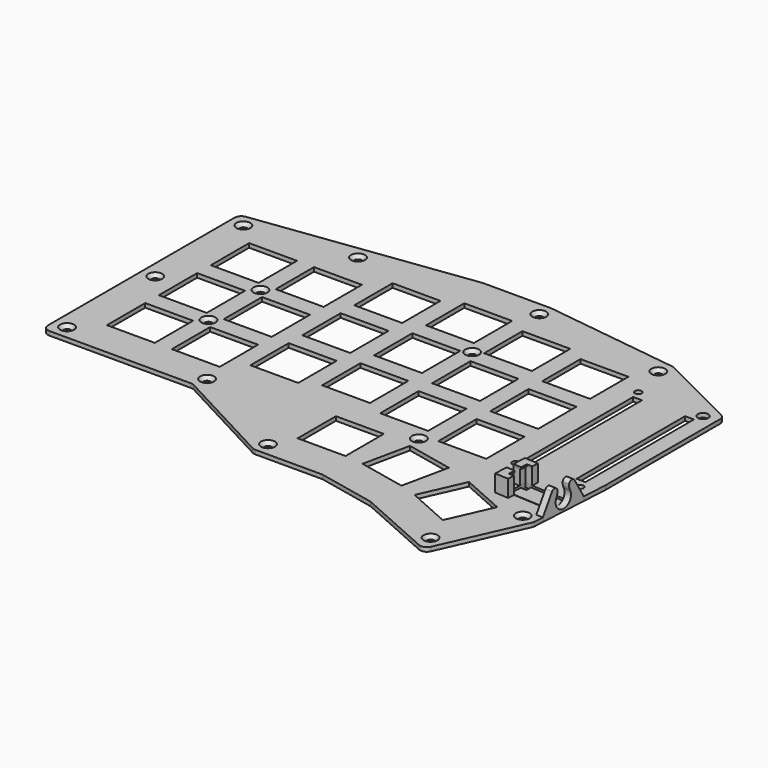
from build123d import *

# Parameters (mm, degrees)
SKETCH_W        = 14.05
SKETCH_H        = 14.05
PAD_DEPTH       = 1.2
FILLET_R        = 2
SKETCH002_R     = 1.05
SKETCH002_R_2   = 1.55
POCKET_DEPTH    = 1.2
CHAMFER_SIZE    = 1
SKETCH010_R     = 0.975
SKETCH010_W     = 2.6
SKETCH010_H     = 39.8
POCKET003_DEPTH = 5
POCKET004_DEPTH = 0.6
POCKET005_DEPTH = 5
PAD007_DEPTH    = 2
FILLET004_R     = 3
FILLET005_R     = 1
PAD008_DEPTH    = 4.45
PAD009_DEPTH    = 0.5


with BuildPart() as part:
    # Sketch → Pad (new body)
    with BuildSketch(Plane.XY):
        Polygon((0, 72.168726), (0, 0), (44.103903, 0), (75.203903, -16.55), (95.409166, -16.55), (112.397959, -20.161079), (136.341223, -30.821308), (147.938038, -4.774436), (149.35, 19.79532), (149.35, 63.069272), (124.674612, 75.406966), (84.722693, 80.65), (64.627307, 80.65), align=None)
        Polygon((118.184417, -11.243696), (123.899067, 1.591618), (136.734381, -4.123032), (131.019731, -16.958346), align=None, mode=Mode.SUBTRACT)
        with Locations((17.525, 17.525)):
            Rectangle(SKETCH_W, SKETCH_H, mode=Mode.SUBTRACT)
        with Locations((36.575, 17.525)):
            Rectangle(SKETCH_W, SKETCH_H, mode=Mode.SUBTRACT)
        with Locations((55.625, 22.525)):
            Rectangle(SKETCH_W, SKETCH_H, mode=Mode.SUBTRACT)
        with Locations((74.675, 25.025)):
            Rectangle(SKETCH_W, SKETCH_H, mode=Mode.SUBTRACT)
        with Locations((93.725, 22.525)):
            Rectangle(SKETCH_W, SKETCH_H, mode=Mode.SUBTRACT)
        with Locations((112.775, 20.025)):
            Rectangle(SKETCH_W, SKETCH_H, mode=Mode.SUBTRACT)
        with Locations((17.525, 36.575)):
            Rectangle(SKETCH_W, SKETCH_H, mode=Mode.SUBTRACT)
        with Locations((36.575, 36.575)):
            Rectangle(SKETCH_W, SKETCH_H, mode=Mode.SUBTRACT)
        with Locations((55.625, 41.575)):
            Rectangle(SKETCH_W, SKETCH_H, mode=Mode.SUBTRACT)
        with Locations((74.675, 44.075)):
            Rectangle(SKETCH_W, SKETCH_H, mode=Mode.SUBTRACT)
        with Locations((93.725, 41.575)):
            Rectangle(SKETCH_W, SKETCH_H, mode=Mode.SUBTRACT)
        with Locations((112.775, 39.075)):
            Rectangle(SKETCH_W, SKETCH_H, mode=Mode.SUBTRACT)
        with Locations((17.525, 55.625)):
            Rectangle(SKETCH_W, SKETCH_H, mode=Mode.SUBTRACT)
        with Locations((36.575, 55.625)):
            Rectangle(SKETCH_W, SKETCH_H, mode=Mode.SUBTRACT)
        with Locations((55.625, 60.625)):
            Rectangle(SKETCH_W, SKETCH_H, mode=Mode.SUBTRACT)
        with Locations((74.675, 63.125)):
            Rectangle(SKETCH_W, SKETCH_H, mode=Mode.SUBTRACT)
        with Locations((93.725, 60.625)):
            Rectangle(SKETCH_W, SKETCH_H, mode=Mode.SUBTRACT)
        with Locations((112.775, 58.125)):
            Rectangle(SKETCH_W, SKETCH_H, mode=Mode.SUBTRACT)
        with Locations((86.725, 0.975)):
            Rectangle(SKETCH_W, SKETCH_H, mode=Mode.SUBTRACT)
        Polygon((99.215148, -6.62441), (102.136307, 7.118564), (115.879281, 4.197404), (112.958122, -9.545569), align=None, mode=Mode.SUBTRACT)
    extrude(amount=PAD_DEPTH)

    # Fillet
    fillet_edges = [part.edges().sort_by_distance(p)[0] for p in [
        (0, 0, 0.6),
        (44.103903, 0, 0.6),
        (75.203903, -16.55, 0.6),
        (95.409166, -16.55, 0.6),
        (112.397959, -20.161079, 0.6),
        (136.341223, -30.821308, 0.6),
        (147.938038, -4.774436, 0.6),
        (149.35, 63.069272, 0.6),
        (124.674612, 75.406966, 0.6),
        (84.722693, 80.65, 0.6),
        (64.627307, 80.65, 0.6),
        (0, 72.168726, 0.6),
    ]]
    fillet(fillet_edges, radius=FILLET_R)

    # Sketch002 (on Face5 of Fillet) → Pocket (cut)
    with BuildSketch(Plane.XY.offset(1.2)):
        with Locations((4, 68.659363)):
            Circle(SKETCH002_R)
        with Locations((4, 4)):
            Circle(SKETCH002_R)
        with Locations((45.101951, 4)):
            Circle(SKETCH002_R)
        with Locations((76.201951, -12.55)):
            Circle(SKETCH002_R)
        with Locations((134.313988, -25.540179)):
            Circle(SKETCH002_R)
        with Locations((123.487306, 71.528483)):
            Circle(SKETCH002_R)
        with Locations((143.986562, -3.815223)):
            Circle(SKETCH002_R)
        with Locations((4, 36.329682)):
            Circle(SKETCH002_R)
        with Locations((34.444327, 72.654682)):
            Circle(SKETCH002_R)
        with Locations((27.05, 46.1)):
            Circle(SKETCH002_R)
        with Locations((27.05, 27.05)):
            Circle(SKETCH002_R)
        with Locations((145.35, 60.597136)):
            Circle(SKETCH002_R_2)
        with Locations((101.459216, 11.212173)):
            Circle(SKETCH002_R)
        with Locations((84.2, 52.35)):
            Circle(SKETCH002_R)
        with Locations((84.461347, 76.65)):
            Circle(SKETCH002_R)
    extrude(amount=-POCKET_DEPTH, mode=Mode.SUBTRACT)

    # Chamfer
    chamfer_edges = [part.edges().sort_by_distance(p)[0] for p in [
        (2.95, 68.659363, 1.2),
        (33.394327, 72.654682, 1.2),
        (26, 46.1, 1.2),
        (2.95, 36.329682, 1.2),
        (26, 27.05, 1.2),
        (2.95, 4, 1.2),
        (44.051951, 4, 1.2),
        (75.151951, -12.55, 1.2),
        (100.409216, 11.212173, 1.2),
        (133.263988, -25.540179, 1.2),
        (122.437306, 71.528483, 1.2),
        (83.15, 52.35, 1.2),
        (142.936562, -3.815223, 1.2),
        (83.411347, 76.65, 1.2),
    ]]
    chamfer(chamfer_edges, length=CHAMFER_SIZE)

    # Sketch010 (on Face1 of Chamfer) → Pocket003 (cut)
    with BuildSketch(Plane.XY.offset(1.2)):
        with Locations((126.35, 60.597136)):
            Circle(SKETCH010_R)
        with Locations((145.35, 15.597136)):
            Circle(SKETCH010_R)
        with Locations((126.35, 15.597136)):
            Circle(SKETCH010_R)
        with Locations((128.23, 38.097136)):
            Rectangle(SKETCH010_W, SKETCH010_H)
        with Locations((143.47, 38.097136)):
            Rectangle(SKETCH010_W, SKETCH010_H)
    extrude(amount=-POCKET003_DEPTH, mode=Mode.SUBTRACT)

    # Sketch011 (on Face1 of Pocket003) → Pocket004 (cut)
    with BuildSketch(Plane.XY.offset(1.2)):
        Polygon((148.700849, 8.499357), (134.324569, 9.325525), (133.965989, 3.08582), (148.342269, 2.259651), align=None)
    extrude(amount=-POCKET004_DEPTH, mode=Mode.SUBTRACT)

    # Sketch012 (on Face141 of Pocket004) → Pocket005 (cut)
    with BuildSketch(Plane.XY.offset(0.6)):
        Polygon((134.324569, 9.325525), (136.021769, 9.227992), (135.924235, 7.530792), (134.227035, 7.628326), align=None)
        Polygon((133.965989, 3.08582), (145.347211, 2.43177), (145.404584, 3.430123), (134.023361, 4.084173), align=None)
    extrude(amount=-POCKET005_DEPTH, mode=Mode.SUBTRACT)

    # Sketch013 (on Face11 of Pocket005) → Pad007 (join)
    with BuildSketch(Plane(origin=(147.724551, -8.489359, 0), x_dir=(0.057373, 0.998353, 0), z_dir=(0.998353, -0.057373, 0))):
        with BuildLine():
            ThreePointArc((12.566745, 5.644967), (13.891745, 0.7), (15.216745, 5.644967))
            Line((16.778497, 8.35), (15.216745, 5.644967))
            Line((16.778497, 8.35), (20.906551, 1.2))
            Line((20.906551, 0), (20.906551, 1.2))
            Line((6.876939, 0), (20.906551, 0))
            Line((6.876939, 1.2), (6.876939, 0))
            Line((11.004994, 8.35), (6.876939, 1.2))
            Line((11.004994, 8.35), (12.566745, 5.644967))
        make_face()
    extrude(amount=-PAD007_DEPTH)

    # Fillet004
    fillet004_edges = [part.edges().sort_by_distance(p)[0] for p in [
        (147.599225, 6.759694, 5.644967),
        (147.447187, 4.114059, 5.644967),
    ]]
    fillet(fillet004_edges, radius=FILLET004_R)

    # Fillet005
    fillet005_edges = [part.edges().sort_by_distance(p)[0] for p in [
        (147.357585, 2.554881, 8.35),
        (147.688828, 8.318873, 8.35),
    ]]
    fillet(fillet005_edges, radius=FILLET005_R)

    # Sketch014 (on Face7 of Fillet005) → Pad008 (join)
    with BuildSketch(Plane.XY.offset(1.2)):
        Polygon((134.324569, 9.325525), (136.324569, 9.21059), (136.439504, 11.21059), (132.439504, 11.44046), (132.209634, 7.44046), (134.209634, 7.325525), align=None)
        Polygon((133.965989, 3.08582), (134.080924, 5.08582), (132.080924, 5.200755), (131.851054, 1.200755), (135.851054, 0.970885), (135.965989, 2.970885), align=None)
    extrude(amount=PAD008_DEPTH)

    # Sketch015 (on Face160 of Pad008) → Pad009 (join)
    with BuildSketch(Plane.XY.offset(5.65)):
        Polygon((132.080924, 5.200755), (131.851054, 1.200755), (135.851054, 0.970885), (135.965989, 2.970885), (134.362035, 3.06306), (134.47697, 5.06306), align=None)
        Polygon((132.209634, 7.44046), (134.605681, 7.302766), (134.720616, 9.302766), (136.324569, 9.21059), (136.439504, 11.21059), (132.439504, 11.44046), align=None)
    extrude(amount=PAD009_DEPTH)


with BuildPart() as part_1:
    # Body placement: moved
    add(part.part.moved(Location((0, 0, 3))))


solid = part_1.part
